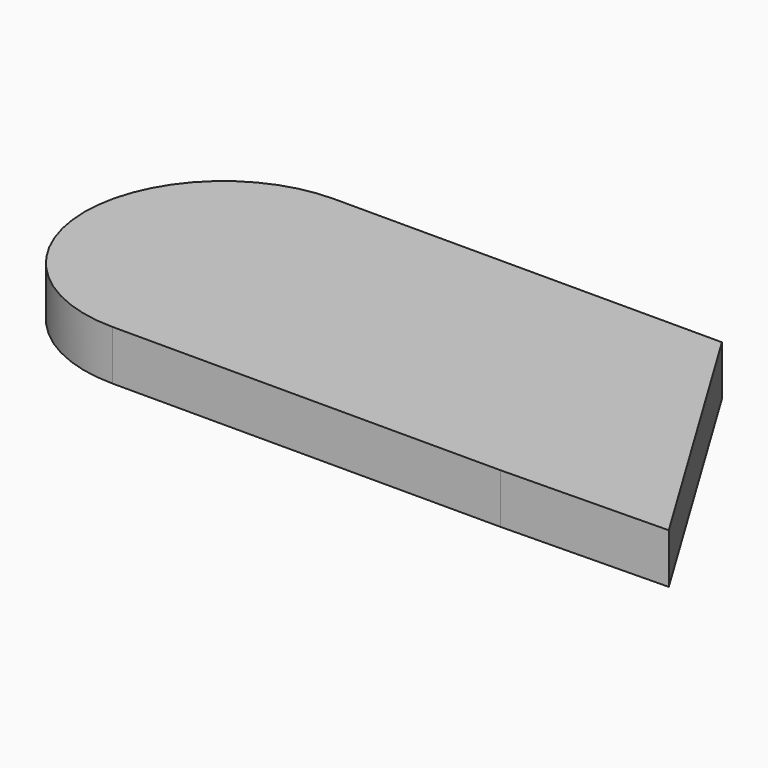
from build123d import *

# Parameters (mm, degrees)
F0_W     = 70
F0_H     = 50
F1_DEPTH = 9


with BuildPart() as f1:
    # F0 (on Top) → F1 (new body)
    with BuildSketch(Plane.XY):
        with Locations((6.340416, 31.516191)):
            Rectangle(F0_W, F0_H)
        with BuildLine():
            Line((-28.659584, 6.516191), (-28.659584, 56.516191))
            ThreePointArc((-28.659584, 56.516191), (-53.659584, 31.516191), (-28.659584, 6.516191))
        make_face()
        Polygon((71.336003, 7.030775), (41.340416, 56.516191), (41.340416, 6.516191), align=None)
    extrude(amount=F1_DEPTH)


solid = f1.part
